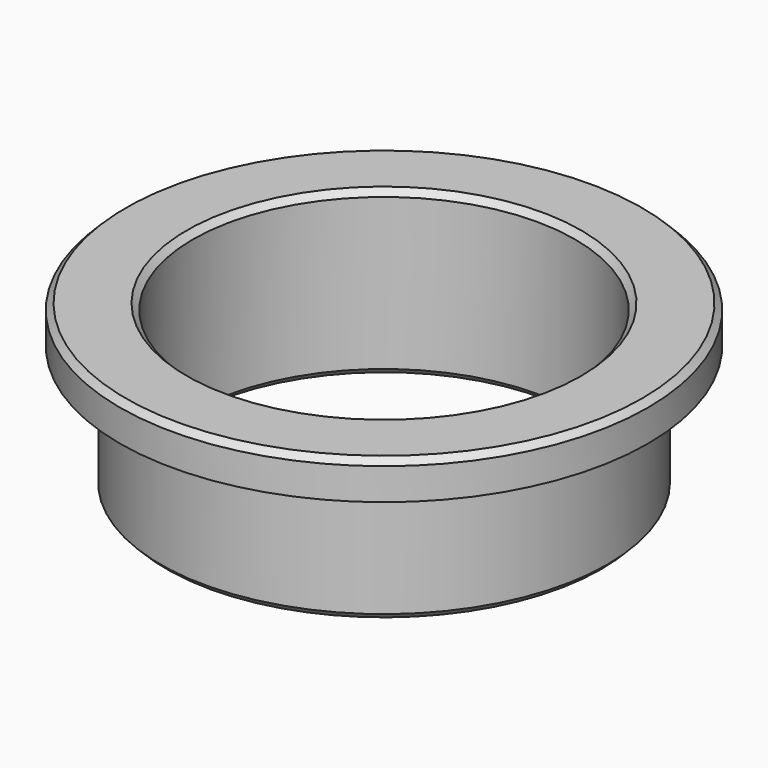
from build123d import *

# Parameters (mm, degrees)
F0_R     = 28.194
F0_R_2   = 24.13
F1_DEPTH = 15.875
F2_R     = 33.3375
F2_R_2   = 24.13
F3_DEPTH = 4.7625
F4_SIZE  = 0.762


with BuildPart() as f1:
    # F0 (on Top) → F1 (new body)
    with BuildSketch(Plane.XY):
        Circle(F0_R)
        Circle(F0_R_2, mode=Mode.SUBTRACT)
    extrude(amount=-F1_DEPTH)

    # F2 (on Top) → F3 (join)
    with BuildSketch(Plane.XY):
        Circle(F2_R)
        Circle(F2_R_2, mode=Mode.SUBTRACT)
    extrude(amount=F3_DEPTH)

    # F4
    f4_edges = [f1.edges().sort_by_distance(p)[0] for p in [
        (-33.3375, 0, 4.7625),
        (-24.13, 0, 4.7625),
        (-28.194, 0, -15.875),
        (-24.13, 0, -15.875),
    ]]
    chamfer(f4_edges, length=F4_SIZE)


solid = f1.part
